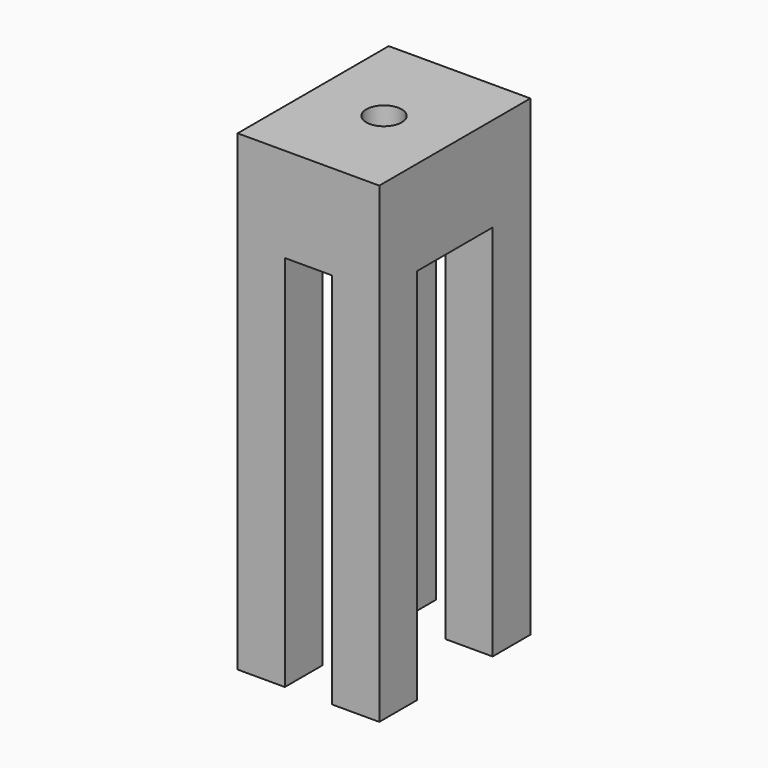
from build123d import *

# Parameters (mm, degrees)
F0_W     = 38.1
F0_H     = 50.8
F1_DEPTH = 63.5
F3_DEPTH = 101.6
F4_R     = 4.7625
F5_DEPTH = 25.4


with BuildPart() as f1:
    # F0 (on Top) → F1 (new body, symmetric)
    with BuildSketch(Plane.XY):
        Rectangle(F0_W, F0_H)
    extrude(amount=F1_DEPTH, both=True)

    # F2 (on face) → F3 (cut)
    with BuildSketch(Plane(origin=(0, 0, -63.5), x_dir=(1, 0, 0), z_dir=(0, 0, -1))):
        Polygon((6.35, 25.4), (-6.35, 25.4), (-6.35, 12.7), (-19.05, 12.7), (-19.05, -12.7), (-6.35, -12.7), (-6.35, -25.4), (6.35, -25.4), (6.35, -12.7), (19.05, -12.7), (19.05, 12.7), (6.35, 12.7), align=None)
    extrude(amount=-F3_DEPTH, mode=Mode.SUBTRACT)

    # F4 (on face) → F5 (cut)
    with BuildSketch(Plane.XY.offset(63.5)):
        Circle(F4_R)
    extrude(amount=-F5_DEPTH, mode=Mode.SUBTRACT)


solid = f1.part
